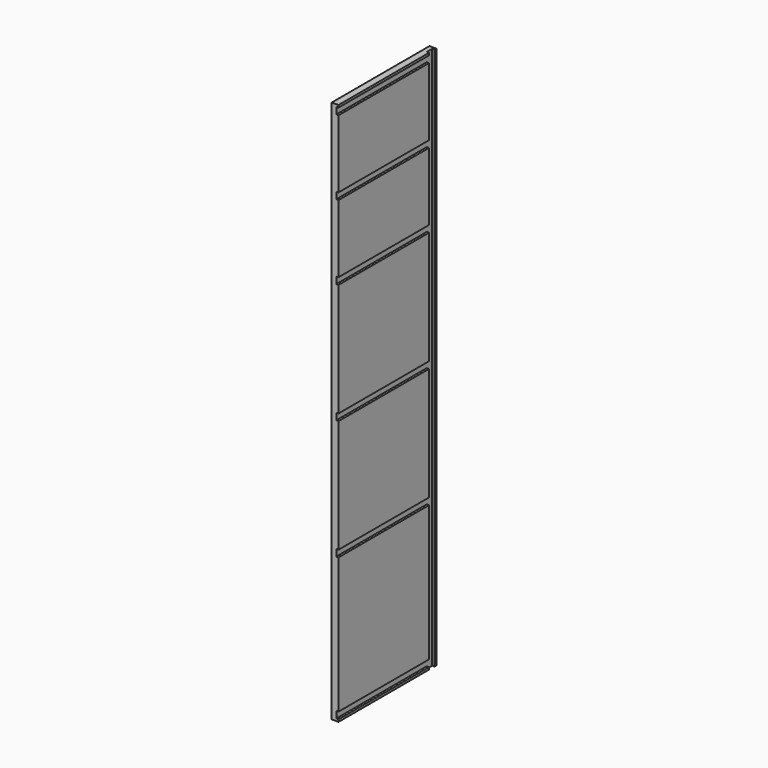
from build123d import *

# Parameters (mm, degrees)
F0_W     = 270
F0_H     = 1200
F1_DEPTH = 15
F2_W     = 5
F2_H     = 15
F3_DEPTH = 1200
F4_W     = 5
F4_H     = 15
F5_DEPTH = 250


with BuildPart() as f1:
    # F0 (on Right) → F1 (new body)
    with BuildSketch(Plane.YZ):
        Rectangle(F0_W, F0_H)
    extrude(amount=F1_DEPTH)

    # F2 (on face) → F3 (cut, through all)
    with BuildSketch(Plane(origin=(0, 0, -600), x_dir=(1, 0, 0), z_dir=(0, 0, -1))):
        with Locations((12.5, -122.5)):
            Rectangle(F2_W, F2_H)
    extrude(amount=-F3_DEPTH, mode=Mode.SUBTRACT)

    # F4 (on face) → F5 (cut, through all)
    with BuildSketch(Plane.XZ.offset(135)):
        with Locations((12.5, -587.5)):
            Rectangle(F4_W, F4_H)
        with Locations((12.5, -272.5)):
            Rectangle(F4_W, F4_H)
        with Locations((12.5, -7.5)):
            Rectangle(F4_W, F4_H)
        with Locations((12.5, 257.5)):
            Rectangle(F4_W, F4_H)
        with Locations((12.5, 422.5)):
            Rectangle(F4_W, F4_H)
        with Locations((12.5, 587.5)):
            Rectangle(F4_W, F4_H)
    extrude(amount=-F5_DEPTH, mode=Mode.SUBTRACT)


solid = f1.part
